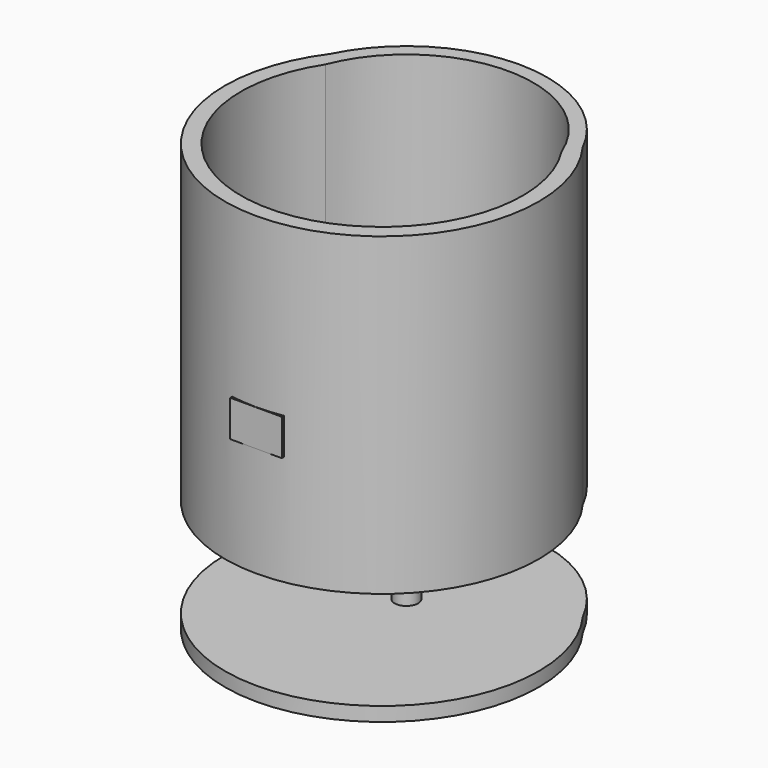
from build123d import *

# Parameters (mm, degrees)
SKETCH007_AS_DRAWN_W                 = 11
SKETCH007_AS_DRAWN_H                 = 7.75
EXTRUDE007_DEPTH                     = 9
EXTRUDE007_ONTO_SKETCH007_ROLL_ANGLE = 90
EXTRUDE003_DEPTH                     = 5
SKETCH003_W                          = 26
SKETCH003_H                          = 15
EXTRUDE002_DEPTH                     = 5
SKETCH002_W                          = 15.2449
SKETCH002_H                          = 26.792
EXTRUDE001_DEPTH                     = 5
SKETCH001_W                          = 10
SKETCH001_H                          = 8
EXTRUDE_DEPTH                        = 5
EXTRUDE006_DEPTH                     = 60
EXTRUDE005_DEPTH                     = 60
EXTRUDE008_DEPTH                     = 7
FUSION001_PLACEMENT_ANGLE            = 180
SKETCH015_R                          = 1.5
EXTRUDE011_DEPTH                     = 15
EXTRUDE009_DEPTH                     = 3
SKETCH006_R                          = 2.5
EXTRUDE010_DEPTH                     = 10


with BuildPart() as obj1:
    # Sketch007 as drawn → Extrude007 (new)
    with BuildSketch(Plane.XY):
        with Locations((0, -20.308748)):
            Rectangle(SKETCH007_AS_DRAWN_W, SKETCH007_AS_DRAWN_H)
    extrude(amount=-EXTRUDE007_DEPTH)


with BuildPart() as obj1_1:
    # Extrude007 onto Sketch007 roll: moved
    add(obj1.part.rotate(Axis((0, 0, 0), (1, 0, 0)), EXTRUDE007_ONTO_SKETCH007_ROLL_ANGLE))


with BuildPart() as obj1_2:
    # Extrude007 onto Sketch007 placement: moved
    add(obj1_1.part.moved(Location((0, -40, 0))))


with BuildPart() as usb_body:
    # Sketch005 → Extrude003 (new body)
    with BuildSketch(Plane.XY):
        with BuildLine():
            ThreePointArc((-3.75, -26.738315), (11.039429, -24.640029), (22.449944, -15))
            Line((22.449944, -15), (-3.75, -15))
            Line((-3.75, -15), (-3.75, -26.738315))
        make_face()
    extrude(amount=EXTRUDE003_DEPTH)


with BuildPart() as power001:
    # Sketch003 → Extrude002 (new body)
    with BuildSketch(Plane.XY):
        with Locations((9.5, -7.5)):
            Rectangle(SKETCH003_W, SKETCH003_H)
    extrude(amount=EXTRUDE002_DEPTH)


with BuildPart() as momentary001:
    # Sketch002 → Extrude001 (new body)
    with BuildSketch(Plane.XY):
        with Locations((-11.08628, -13.396)):
            Rectangle(SKETCH002_W, SKETCH002_H)
    extrude(amount=EXTRUDE001_DEPTH)


with BuildPart() as reset001:
    # Sketch001 → Extrude (new body)
    with BuildSketch(Plane.XY):
        with Locations((-10, -19)):
            Rectangle(SKETCH001_W, SKETCH001_H)
    extrude(amount=EXTRUDE_DEPTH)


with BuildPart() as shell:
    # Sketch008 → Extrude006 (new body)
    with BuildSketch(Plane.XY.offset(-60)):
        with BuildLine():
            ThreePointArc((25.141342, 9.844435), (0, 27), (-25.141342, 9.844435))
            ThreePointArc((-25.141342, 9.844435), (0, -36.52361), (25.141342, 9.844435))
        make_face()
    extrude(amount=EXTRUDE006_DEPTH)


with BuildPart() as base_main:
    # Sketch → Extrude005 (new body)
    with BuildSketch(Plane.XY):
        with BuildLine():
            ThreePointArc((26.8787, 13.324245), (0, 30), (-26.8787, 13.324245))
            ThreePointArc((-26.8787, 13.324245), (0, -39.93621), (26.8787, 13.324245))
        make_face()
    extrude(amount=-EXTRUDE005_DEPTH)


with BuildPart() as bodymold:
    # Sketch013 → Extrude008 (new body)
    with BuildSketch(Plane.XY):
        with BuildLine():
            ThreePointArc((26.8787, 13.324245), (0, 30), (-26.8787, 13.324245))
            ThreePointArc((-26.8787, 13.324245), (0, -39.93621), (26.8787, 13.324245))
        make_face()
    extrude(amount=EXTRUDE008_DEPTH)

    # Fusion: union Base Main
    add(base_main.part)

    # Cut: cut shell
    add(shell.part, mode=Mode.SUBTRACT)

    # Cut001: cut Reset001
    add(reset001.part, mode=Mode.SUBTRACT)

    # Cut002: cut Momentary001
    add(momentary001.part, mode=Mode.SUBTRACT)

    # Cut003: cut Power001
    add(power001.part, mode=Mode.SUBTRACT)

    # Cut004: cut USB Body
    add(usb_body.part, mode=Mode.SUBTRACT)

    # Fusion001: union obj1
    add(obj1_2.part)


with BuildPart() as bodymold_1:
    # Fusion001 placement: moved
    add(bodymold.part.rotate(Axis((0, 0, 0), (0, 1, 0)), FUSION001_PLACEMENT_ANGLE))


with BuildPart() as extrude011:
    # Sketch015 → Extrude011 (new body)
    with BuildSketch(Plane(origin=(0, 0, -31), x_dir=(1, 0, 0), z_dir=(0, 0, -1))):
        Circle(SKETCH015_R)
    extrude(amount=-EXTRUDE011_DEPTH)


with BuildPart() as extrude009:
    # Sketch014 → Extrude009 (new body)
    with BuildSketch(Plane.XY.offset(-28)):
        with BuildLine():
            ThreePointArc((26.8787, 13.324245), (0, 30), (-26.8787, 13.324245))
            ThreePointArc((-26.8787, 13.324245), (0, -39.93621), (26.8787, 13.324245))
        make_face()
    extrude(amount=-EXTRUDE009_DEPTH)


with BuildPart() as lid:
    # Sketch006 → Extrude010 (new body)
    with BuildSketch(Plane(origin=(0, 0, -28), x_dir=(1, 0, 0), z_dir=(0, 0, -1))):
        Circle(SKETCH006_R)
    extrude(amount=-EXTRUDE010_DEPTH)

    # Fusion002: union Extrude009
    add(extrude009.part)

    # Cut005: cut Extrude011
    add(extrude011.part, mode=Mode.SUBTRACT)


solid = Compound([bodymold_1.part, lid.part])
